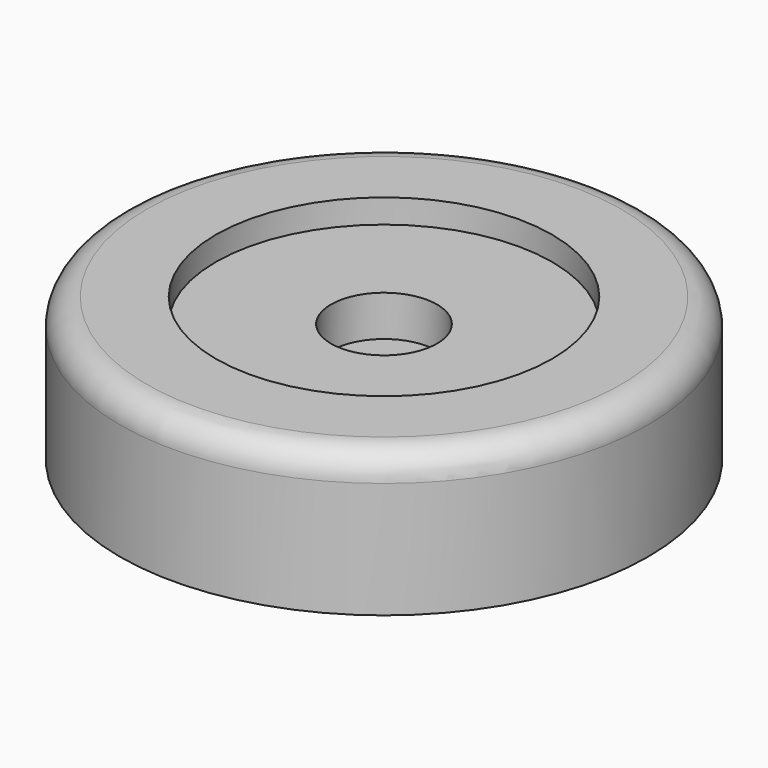
from build123d import *


with BuildPart() as f1:
    # F0 (on Front) → F1 (revolve)
    with BuildSketch(Plane.XZ):
        with BuildLine():
            Line((-49.135093, 21.603222), (-49.135093, 0))
            Line((-49.135093, 0), (-46.135093, 0))
            Line((-46.135093, 0), (-46.135093, 7.41767))
            Line((-46.135093, 7.41767), (-41.773196, 7.41767))
            Line((-41.773196, 7.41767), (-41.773196, 11.801611))
            Line((-41.773196, 11.801611), (-46.135093, 11.801611))
            Line((-46.135093, 11.801611), (-46.135093, 23.603222))
            Line((-46.135093, 23.603222), (-34.280277, 23.603222))
            Line((-34.280277, 23.603222), (-34.280277, 19.141468))
            Line((-34.280277, 19.141468), (-12.863847, 19.141468))
            Line((-12.863847, 19.141468), (-12.863847, 11.556481))
            Line((-12.863847, 11.556481), (0, 11.556481))
            Line((0, 11.556481), (0, 14.556481))
            Line((0, 14.556481), (-9.863847, 14.556481))
            Line((-9.863847, 14.556481), (-9.863847, 22.141468))
            Line((-9.863847, 22.141468), (-31.280277, 22.141468))
            Line((-31.280277, 22.141468), (-31.280277, 26.603222))
            Line((-31.280277, 26.603222), (-44.135093, 26.603222))
            ThreePointArc((-44.135093, 26.603222), (-47.670627, 25.138756), (-49.135093, 21.603222))
        make_face()
    revolve(axis=Axis((0, 0, 13.056481), (0, 0, -1)))


solid = f1.part
